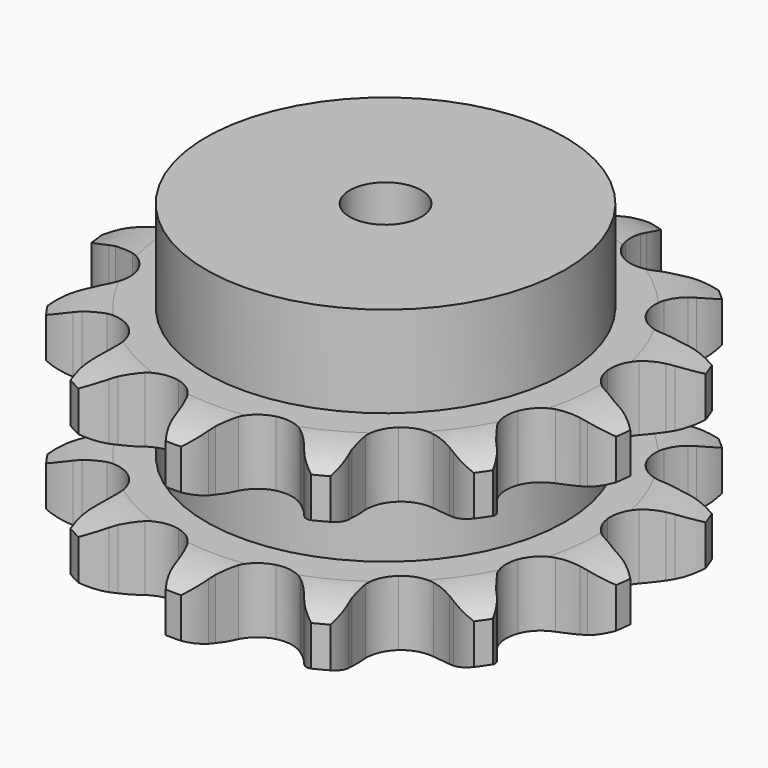
from build123d import *

# Parameters (mm, degrees)
PAD_DEPTH         = 54.6
SKETCH001_R       = 50
PAD001_DEPTH      = 80
SKETCH002_R       = 10
POCKET_DEPTH      = 0.001
POCKET_DEPTH_BACK = 80.001


with BuildPart() as part:
    # Sprocket → Pad (new body)
    with BuildSketch(Plane.XY):
        with BuildLine():
            ThreePointArc((-18.251565, 74.04951), (-14.307053, 71.037063), (-11.472625, 66.96275))
            Line((-11.472625, 66.96275), (-10.610276, 65.188631))
            ThreePointArc((-10.610276, 65.188631), (-9.155903, 62.601853), (-7.403546, 60.206886))
            ThreePointArc((-7.403546, 60.206886), (-4.09088, 57.638388), (0, 56.724256))
            ThreePointArc((0, 56.724256), (4.09088, 57.638388), (7.403546, 60.206886))
            ThreePointArc((7.403546, 60.206886), (9.155903, 62.601853), (10.610276, 65.188631))
            Line((10.610276, 65.188631), (11.472625, 66.96275))
            ThreePointArc((11.472625, 66.96275), (14.307053, 71.037063), (18.251565, 74.04951))
            ThreePointArc((18.251565, 74.04951), (20.344303, 69.549014), (20.960636, 64.624165))
            Line((20.960636, 64.624165), (20.899734, 62.652507))
            ThreePointArc((20.899734, 62.652507), (20.985382, 59.686148), (21.424021, 56.751149))
            ThreePointArc((21.424021, 56.751149), (23.1636, 52.937384), (26.361076, 50.226834))
            ThreePointArc((26.361076, 50.226834), (30.408189, 49.135131), (34.535049, 49.869951))
            Line((34.535049, 49.869951), (39.6896, 52.790825))
            ThreePointArc((39.6896, 52.790825), (40.472008, 53.391663), (41.277647, 53.960976))
            ThreePointArc((41.277647, 53.960976), (45.680836, 56.251376), (50.573481, 57.085659))
            ThreePointArc((50.573481, 57.085659), (50.335024, 52.128125), (48.592069, 47.480963))
            Line((48.592069, 47.480963), (47.621868, 45.763449))
            ThreePointArc((47.621868, 45.763449), (46.319169, 43.097066), (45.343602, 40.294408))
            ThreePointArc((45.343602, 40.294408), (45.111578, 36.109064), (46.683147, 32.22305))
            ThreePointArc((46.683147, 32.22305), (49.759348, 29.375608), (53.754989, 28.108411))
            Line((53.754989, 28.108411), (59.676516, 28.299277))
            ThreePointArc((59.676516, 28.299277), (60.648527, 28.46769), (61.626457, 28.597392))
            ThreePointArc((61.626457, 28.597392), (66.589689, 28.579177), (71.309622, 27.044173))
            ThreePointArc((71.309622, 27.044173), (68.794598, 22.76531), (65.091644, 19.460444))
            Line((65.091644, 19.460444), (63.434405, 18.390537))
            ThreePointArc((63.434405, 18.390537), (61.041793, 16.634966), (58.875511, 14.606704))
            ThreePointArc((58.875511, 14.606704), (56.725038, 11.008593), (56.310672, 6.837353))
            ThreePointArc((56.310672, 6.837353), (57.71124, 2.886487), (60.660309, -0.092427))
            Line((60.660309, -0.092427), (65.99226, -2.675294))
            ThreePointArc((65.99226, -2.675294), (66.931199, -2.977888), (67.857388, -3.317509))
            ThreePointArc((67.857388, -3.317509), (72.243647, -5.640167), (75.709588, -9.192808))
            ThreePointArc((75.709588, -9.192808), (71.494159, -11.812763), (66.679508, -13.018227))
            Line((66.679508, -13.018227), (64.714885, -13.195427))
            ThreePointArc((64.714885, -13.195427), (61.780477, -13.638005), (58.91975, -14.427221))
            ThreePointArc((58.91975, -14.427221), (55.343475, -16.613815), (53.038101, -20.114698))
            ThreePointArc((53.038101, -20.114698), (52.442182, -24.263893), (53.669083, -28.272091))
            Line((53.669083, -28.272091), (57.189973, -33.036988))
            ThreePointArc((57.189973, -33.036988), (57.88074, -33.741268), (58.54301, -34.472409))
            ThreePointArc((58.54301, -34.472409), (61.347457, -38.567417), (62.7654, -43.323828))
            ThreePointArc((62.7654, -43.323828), (57.815269, -43.684674), (52.9919, -42.51458))
            Line((52.9919, -42.51458), (51.169964, -41.758476))
            ThreePointArc((51.169964, -41.758476), (48.365999, -40.786673), (45.466184, -40.156042))
            ThreePointArc((45.466184, -40.156042), (41.283389, -40.430197), (37.615139, -42.458715))
            ThreePointArc((37.615139, -42.458715), (35.159253, -45.855708), (34.382917, -49.97496))
            Line((34.382917, -49.97496), (35.286153, -55.830306))
            ThreePointArc((35.286153, -55.830306), (35.570501, -56.77493), (35.817133, -57.730096))
            ThreePointArc((35.817133, -57.730096), (36.397303, -62.659336), (35.442415, -67.52988))
            ThreePointArc((35.442415, -67.52988), (30.891598, -65.548953), (27.164486, -62.271355))
            Line((27.164486, -62.271355), (25.902621, -60.755163))
            ThreePointArc((25.902621, -60.755163), (23.871453, -58.591606), (21.596863, -56.685599))
            ThreePointArc((21.596863, -56.685599), (17.765776, -54.984509), (13.575003, -55.075952))
            ThreePointArc((13.575003, -55.075952), (9.821762, -56.942532), (7.220039, -60.229168))
            Line((7.220039, -60.229168), (5.2987, -65.833573))
            ThreePointArc((5.2987, -65.833573), (5.111488, -66.80214), (4.885983, -67.762513))
            ThreePointArc((4.885983, -67.762513), (3.108966, -72.396757), (0, -76.265651))
            ThreePointArc((0, -76.265651), (-3.108966, -72.396757), (-4.885983, -67.762513))
            Line((-4.885983, -67.762513), (-5.2987, -65.833573))
            ThreePointArc((-5.2987, -65.833573), (-6.091755, -62.973908), (-7.220039, -60.229168))
            ThreePointArc((-7.220039, -60.229168), (-9.821762, -56.942532), (-13.575003, -55.075952))
            ThreePointArc((-13.575003, -55.075952), (-17.765776, -54.984509), (-21.596863, -56.685599))
            Line((-21.596863, -56.685599), (-25.902621, -60.755163))
            ThreePointArc((-25.902621, -60.755163), (-26.518504, -61.525784), (-27.164486, -62.271355))
            ThreePointArc((-27.164486, -62.271355), (-30.891598, -65.548953), (-35.442415, -67.52988))
            ThreePointArc((-35.442415, -67.52988), (-36.397303, -62.659336), (-35.817133, -57.730096))
            Line((-35.817133, -57.730096), (-35.286153, -55.830306))
            ThreePointArc((-35.286153, -55.830306), (-34.659415, -52.929646), (-34.382917, -49.97496))
            ThreePointArc((-34.382917, -49.97496), (-35.159253, -45.855708), (-37.615139, -42.458715))
            ThreePointArc((-37.615139, -42.458715), (-41.283389, -40.430197), (-45.466184, -40.156042))
            Line((-45.466184, -40.156042), (-51.169964, -41.758476))
            ThreePointArc((-51.169964, -41.758476), (-52.073427, -42.154613), (-52.9919, -42.51458))
            ThreePointArc((-52.9919, -42.51458), (-57.815269, -43.684674), (-62.7654, -43.323828))
            ThreePointArc((-62.7654, -43.323828), (-61.347457, -38.567417), (-58.54301, -34.472409))
            Line((-58.54301, -34.472409), (-57.189973, -33.036988))
            ThreePointArc((-57.189973, -33.036988), (-55.287021, -30.759841), (-53.669083, -28.272091))
            ThreePointArc((-53.669083, -28.272091), (-52.442182, -24.263893), (-53.038101, -20.114698))
            ThreePointArc((-53.038101, -20.114698), (-55.343475, -16.613815), (-58.91975, -14.427221))
            Line((-58.91975, -14.427221), (-64.714885, -13.195427))
            ThreePointArc((-64.714885, -13.195427), (-65.698955, -13.126328), (-66.679508, -13.018227))
            ThreePointArc((-66.679508, -13.018227), (-71.494159, -11.812763), (-75.709588, -9.192808))
            ThreePointArc((-75.709588, -9.192808), (-72.243647, -5.640167), (-67.857388, -3.317509))
            Line((-67.857388, -3.317509), (-65.99226, -2.675294))
            ThreePointArc((-65.99226, -2.675294), (-63.249037, -1.543326), (-60.660309, -0.092427))
            ThreePointArc((-60.660309, -0.092427), (-57.71124, 2.886487), (-56.310672, 6.837353))
            ThreePointArc((-56.310672, 6.837353), (-56.725038, 11.008593), (-58.875511, 14.606704))
            Line((-58.875511, 14.606704), (-63.434405, 18.390537))
            ThreePointArc((-63.434405, 18.390537), (-64.273645, 18.90904), (-65.091644, 19.460444))
            ThreePointArc((-65.091644, 19.460444), (-68.794598, 22.76531), (-71.309622, 27.044173))
            ThreePointArc((-71.309622, 27.044173), (-66.589689, 28.579177), (-61.626457, 28.597392))
            Line((-61.626457, 28.597392), (-59.676516, 28.299277))
            ThreePointArc((-59.676516, 28.299277), (-56.721461, 28.026745), (-53.754989, 28.108411))
            ThreePointArc((-53.754989, 28.108411), (-49.759348, 29.375608), (-46.683147, 32.22305))
            ThreePointArc((-46.683147, 32.22305), (-45.111578, 36.109064), (-45.343602, 40.294408))
            Line((-45.343602, 40.294408), (-47.621868, 45.763449))
            ThreePointArc((-47.621868, 45.763449), (-48.124017, 46.612576), (-48.592069, 47.480963))
            ThreePointArc((-48.592069, 47.480963), (-50.335024, 52.128125), (-50.573481, 57.085659))
            ThreePointArc((-50.573481, 57.085659), (-45.680836, 56.251376), (-41.277647, 53.960976))
            Line((-41.277647, 53.960976), (-39.6896, 52.790825))
            ThreePointArc((-39.6896, 52.790825), (-37.199681, 51.176228), (-34.535049, 49.869951))
            ThreePointArc((-34.535049, 49.869951), (-30.408189, 49.135131), (-26.361076, 50.226834))
            ThreePointArc((-26.361076, 50.226834), (-23.1636, 52.937384), (-21.424021, 56.751149))
            Line((-21.424021, 56.751149), (-20.899734, 62.652507))
            ThreePointArc((-20.899734, 62.652507), (-20.949756, 63.637732), (-20.960636, 64.624165))
            ThreePointArc((-20.960636, 64.624165), (-20.344303, 69.549014), (-18.251565, 74.04951))
        make_face()
    extrude(amount=PAD_DEPTH)

    # Sketch → Groove (revolve, cut)
    with BuildSketch(Plane.XZ):
        with BuildLine():
            ThreePointArc((59.348368, 0), (66.831683, 0.887302), (73.9, 3.5))
            Line((73.9, 3.5), (73.9, 14.7))
            ThreePointArc((73.9, 14.7), (66.831683, 17.312698), (59.348368, 18.2))
            Line((50, 18.2), (59.348368, 18.2))
            Line((50, 36.4), (50, 18.2))
            Line((59.348368, 36.4), (50, 36.4))
            ThreePointArc((59.348368, 36.4), (66.831683, 37.287302), (73.9, 39.9))
            Line((73.9, 39.9), (73.9, 51.1))
            ThreePointArc((73.9, 51.1), (66.831683, 53.712698), (59.348368, 54.6))
            Line((59.348368, 54.6), (83.9, 54.6))
            Line((83.9, 54.6), (83.9, 0))
            Line((59.348368, 0), (83.9, 0))
        make_face()
    revolve(axis=Axis((0, 0, 0), (0, 0, 1)), mode=Mode.SUBTRACT)

    # Sketch001 → Pad001 (join)
    with BuildSketch(Plane.XY):
        Circle(SKETCH001_R)
    extrude(amount=PAD001_DEPTH)

    # Sketch002 → Pocket (cut, two sides)
    with BuildSketch(Plane.XY) as pocket_sk:
        Circle(SKETCH002_R)
    extrude(amount=-POCKET_DEPTH, mode=Mode.SUBTRACT)
    extrude(pocket_sk.sketch, amount=POCKET_DEPTH_BACK, mode=Mode.SUBTRACT)


solid = part.part
